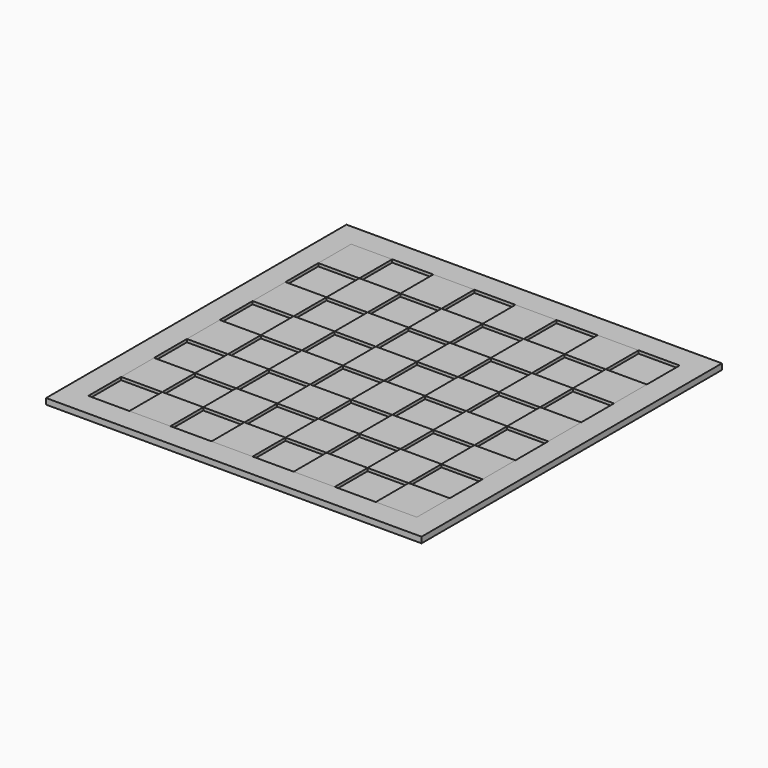
from build123d import *

# Parameters (mm, degrees)
F0_W     = 406.4
F0_H     = 406.4
F1_DEPTH = 3.175
F2_W     = 406.4
F2_H     = 406.4
F2_W_2   = 355.6
F2_H_2   = 355.6
F3_DEPTH = 3.175
F4_W     = 44.45
F4_H     = 44.45
F5_DEPTH = 3.175


with BuildPart() as f1:
    # F0 (on Top) → F1 (new body)
    with BuildSketch(Plane.XY):
        Rectangle(F0_W, F0_H)
    extrude(amount=F1_DEPTH)

    # F2 (on face) → F3 (join)
    with BuildSketch(Plane.XY.offset(3.175)):
        Rectangle(F2_W, F2_H)
        Rectangle(F2_W_2, F2_H_2, mode=Mode.SUBTRACT)
    extrude(amount=F3_DEPTH)


with BuildPart() as f5:
    # F4 (on face) → F5 (new body)
    with BuildSketch(Plane.XY.offset(3.175)):
        with Locations((-155.575, 155.575)):
            Rectangle(F4_W, F4_H)
        with Locations((-66.675, 155.575)):
            Rectangle(F4_W, F4_H)
        with Locations((22.225, 155.575)):
            Rectangle(F4_W, F4_H)
        with Locations((111.125, 155.575)):
            Rectangle(F4_W, F4_H)
        with Locations((-111.125, 111.125)):
            Rectangle(F4_W, F4_H)
        with Locations((-22.225, 111.125)):
            Rectangle(F4_W, F4_H)
        with Locations((66.675, 111.125)):
            Rectangle(F4_W, F4_H)
        with Locations((155.575, 111.125)):
            Rectangle(F4_W, F4_H)
        with Locations((111.125, 66.675)):
            Rectangle(F4_W, F4_H)
        with Locations((22.225, 66.675)):
            Rectangle(F4_W, F4_H)
        with Locations((-66.675, 66.675)):
            Rectangle(F4_W, F4_H)
        with Locations((-155.575, 66.675)):
            Rectangle(F4_W, F4_H)
        with Locations((-111.125, 22.225)):
            Rectangle(F4_W, F4_H)
        with Locations((-22.225, 22.225)):
            Rectangle(F4_W, F4_H)
        with Locations((66.675, 22.225)):
            Rectangle(F4_W, F4_H)
        with Locations((155.575, 22.225)):
            Rectangle(F4_W, F4_H)
        with Locations((111.125, -22.225)):
            Rectangle(F4_W, F4_H)
        with Locations((22.225, -22.225)):
            Rectangle(F4_W, F4_H)
        with Locations((-66.675, -22.225)):
            Rectangle(F4_W, F4_H)
        with Locations((-155.575, -22.225)):
            Rectangle(F4_W, F4_H)
        with Locations((-111.125, -66.675)):
            Rectangle(F4_W, F4_H)
        with Locations((-22.225, -66.675)):
            Rectangle(F4_W, F4_H)
        with Locations((66.675, -66.675)):
            Rectangle(F4_W, F4_H)
        with Locations((155.575, -66.675)):
            Rectangle(F4_W, F4_H)
        with Locations((111.125, -111.125)):
            Rectangle(F4_W, F4_H)
        with Locations((22.225, -111.125)):
            Rectangle(F4_W, F4_H)
        with Locations((-66.675, -111.125)):
            Rectangle(F4_W, F4_H)
        with Locations((-155.575, -111.125)):
            Rectangle(F4_W, F4_H)
        with Locations((-111.125, -155.575)):
            Rectangle(F4_W, F4_H)
        with Locations((-22.225, -155.575)):
            Rectangle(F4_W, F4_H)
        with Locations((66.675, -155.575)):
            Rectangle(F4_W, F4_H)
        with Locations((155.575, -155.575)):
            Rectangle(F4_W, F4_H)
    extrude(amount=F5_DEPTH)


solid = Compound([f1.part, f5.part])
